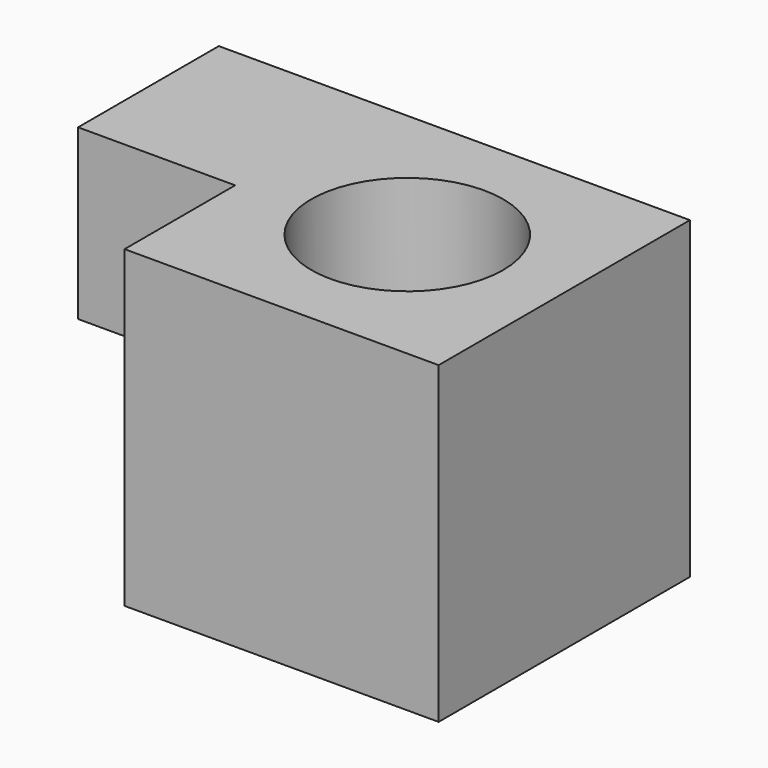
from build123d import *

# Parameters (mm, degrees)
F0_W     = 50.8
F0_H     = 50.8
F1_DEPTH = 50.8
F2_W     = 28.448
F2_H     = 27.305
F3_DEPTH = 25.4
F4_R     = 15.517483
F5_DEPTH = 50.8


with BuildPart() as f1:
    # F0 (on Front) → F1 (new body)
    with BuildSketch(Plane.XZ):
        with Locations((-25.4, 25.4)):
            Rectangle(F0_W, F0_H)
    extrude(amount=F1_DEPTH)

    # F2 (on face) → F3 (join)
    with BuildSketch(Plane(origin=(-50.8, 0, 0), x_dir=(0, -1, 0), z_dir=(-1, 0, 0))):
        with Locations((14.224, 37.1475)):
            Rectangle(F2_W, F2_H)
    extrude(amount=F3_DEPTH)

    # F4 (on face) → F5 (cut)
    with BuildSketch(Plane(origin=(0, 0, 0), x_dir=(1, 0, 0), z_dir=(0, 0, -1))):
        with Locations((-25.4, 25.4)):
            Circle(F4_R)
    extrude(amount=-F5_DEPTH, mode=Mode.SUBTRACT)


solid = f1.part
